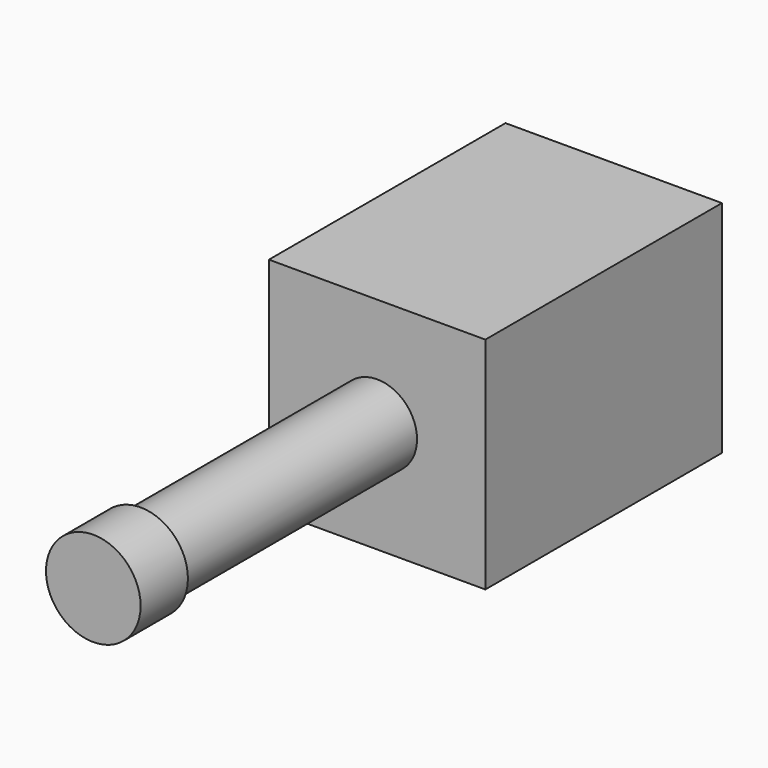
from build123d import *

# Parameters (mm, degrees)
F0_R     = 4
F1_DEPTH = 5
F2_R     = 3.370831
F3_DEPTH = 25
F4_W     = 18.300004
F4_H     = 18.600002
F5_DEPTH = 25


with BuildPart() as f1:
    # F0 (on Front) → F1 (new body)
    with BuildSketch(Plane.XZ):
        Circle(F0_R)
    extrude(amount=F1_DEPTH)

    # F2 (on Front) → F3 (join)
    with BuildSketch(Plane.XZ):
        Circle(F2_R)
    extrude(amount=-F3_DEPTH)

    # F4 (on face) → F5 (join)
    with BuildSketch(Plane(origin=(0, 25, 0), x_dir=(-1, 0, 0), z_dir=(0, 1, 0))):
        Rectangle(F4_W, F4_H)
    extrude(amount=F5_DEPTH)


solid = f1.part
